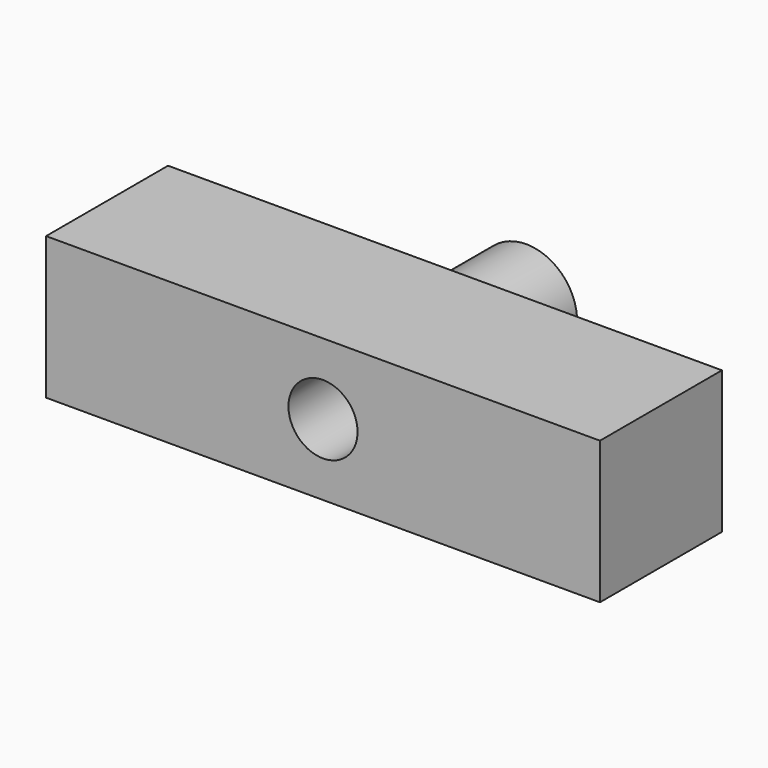
from build123d import *

# Parameters (mm, degrees)
SKETCH009_W     = 54.5
SKETCH009_H     = 15
PAD003_DEPTH    = 14
SKETCH011_R     = 5
PAD005_DEPTH    = 10
SKETCH012_R     = 3.4
POCKET004_DEPTH = 30


with BuildPart() as part:
    # Sketch009 → Pad003 (new body)
    with BuildSketch(Plane.XY):
        with Locations((-27.25, 7.5)):
            Rectangle(SKETCH009_W, SKETCH009_H)
    extrude(amount=PAD003_DEPTH)

    # Sketch011 (on Face3 of Pad003) → Pad005 (join)
    with BuildSketch(Plane(origin=(0, 15, 0), x_dir=(-1, 0, 0), z_dir=(0, 1, 0))):
        with Locations((27.25, 7)):
            Circle(SKETCH011_R)
    extrude(amount=PAD005_DEPTH)

    # Sketch012 (on Face8 of Pad005) → Pocket004 (cut)
    with BuildSketch(Plane(origin=(0, 25, 0), x_dir=(-1, 0, 0), z_dir=(0, 1, 0))):
        with Locations((27.25, 7)):
            Circle(SKETCH012_R)
    extrude(amount=-POCKET004_DEPTH, mode=Mode.SUBTRACT)


solid = part.part
